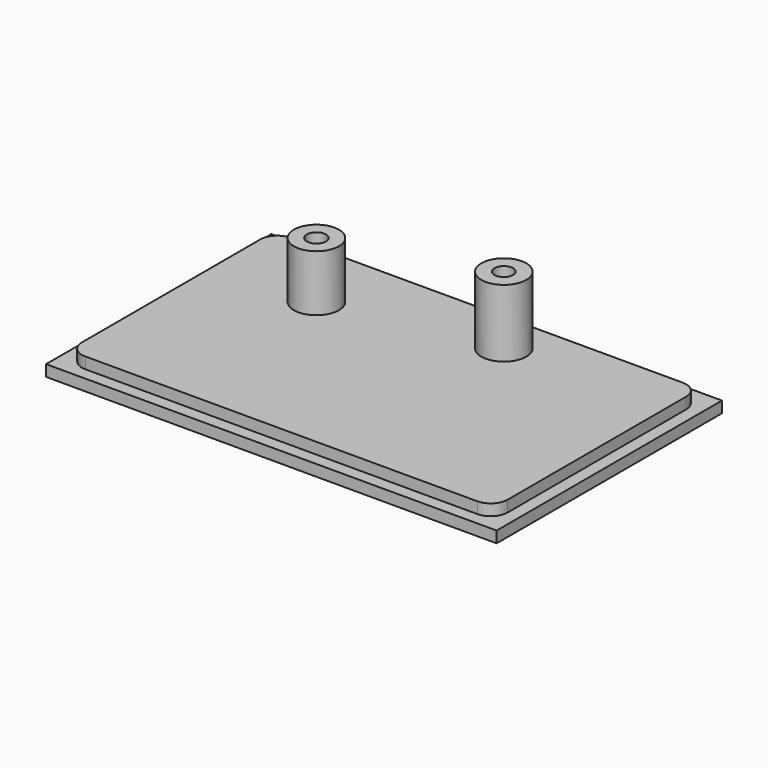
from build123d import *

# Parameters (mm, degrees)
F0_W      = 80
F0_H      = 50
F1_DEPTH  = 2
F2_W      = 75.6
F2_H      = 45.6
F3_DEPTH  = 2
F4_R      = 3
F5_R      = 1.7
F5_R_2    = 1.65
F6_DEPTH  = 25
F7_R      = 4
F7_R_2    = 1.65
F8_DEPTH  = 12
F9_R      = 4
F9_R_2    = 1.7
F10_DEPTH = 10


with BuildPart() as f1:
    # F0 (on Top) → F1 (new body)
    with BuildSketch(Plane.XY):
        Rectangle(F0_W, F0_H)
    extrude(amount=F1_DEPTH)

    # F2 (on face) → F3 (join)
    with BuildSketch(Plane.XY.offset(2)):
        Rectangle(F2_W, F2_H)
    extrude(amount=F3_DEPTH)

    # F4
    f4_edges = [f1.edges().sort_by_distance(p)[0] for p in [
        (-37.8, 22.8, 3),
        (-37.8, -22.8, 3),
        (37.8, 22.8, 3),
        (37.8, -22.8, 3),
    ]]
    fillet(f4_edges, radius=F4_R)

    # F5 (on face) → F6 (cut)
    with BuildSketch(Plane(origin=(0, 0, 0), x_dir=(1, 0, 0), z_dir=(0, 0, -1))):
        with Locations((-20, -10)):
            Circle(F5_R)
        with Locations((9, -15.35)):
            Circle(F5_R_2)
    extrude(amount=-F6_DEPTH, mode=Mode.SUBTRACT)

    # F7 (on face) → F8 (join)
    with BuildSketch(Plane.XY.offset(4)):
        with Locations((9, 15.35)):
            Circle(F7_R)
        with Locations((9, 15.35)):
            Circle(F7_R_2, mode=Mode.SUBTRACT)
    extrude(amount=F8_DEPTH)

    # F9 (on face) → F10 (join)
    with BuildSketch(Plane.XY.offset(4)):
        with Locations((-20, 10)):
            Circle(F9_R)
        with Locations((-20, 10)):
            Circle(F9_R_2, mode=Mode.SUBTRACT)
    extrude(amount=F10_DEPTH)


solid = f1.part
